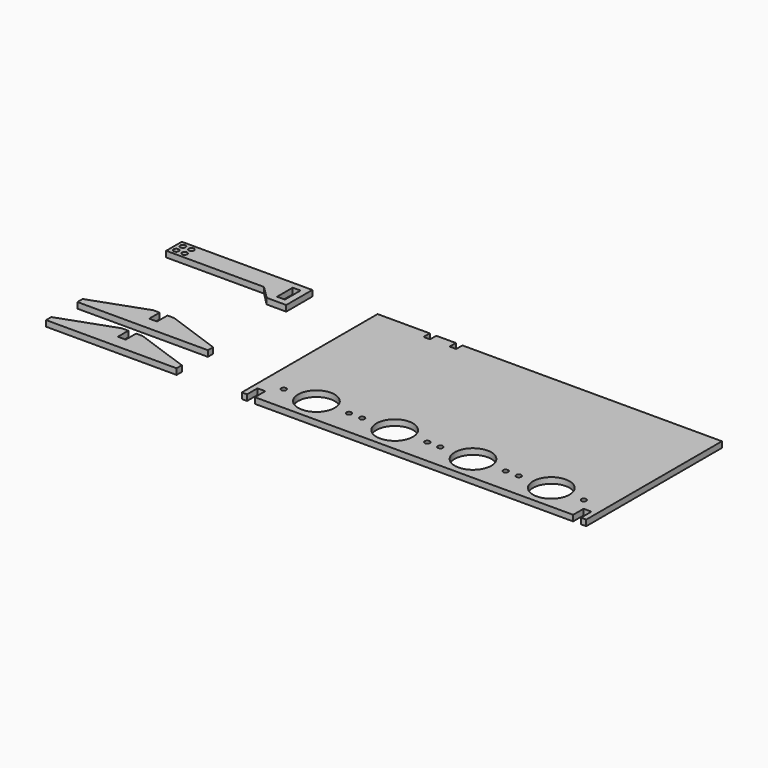
from build123d import *

# Parameters (mm, degrees)
F0_R     = 1.9304
F0_R_2   = 14
F0_R_3   = 2
F0_W     = 5.9944
F0_H     = 15
F1_DEPTH = 4.5


with BuildPart() as f1:
    # F0 (on Top) → F1 (new body)
    with BuildSketch(Plane.XY):
        Polygon((0, 130), (0, 0), (4, 0), (4, 10), (9.9944, 10), (9.9944, 0), (253.8664, 0), (253.8664, 10), (259.8608, 10), (259.8608, 0), (263.8608, 0), (263.8608, 130), (65, 130), (65, 124.0056), (60, 124.0056), (60, 130), (45, 130), (45, 124.0056), (40, 124.0056), (40, 130), align=None)
        with Locations((16.9304, 19)):
            Circle(F0_R, mode=Mode.SUBTRACT)
        with Locations((41.9304, 19)):
            Circle(F0_R_2, mode=Mode.SUBTRACT)
        with Locations((66.9304, 19)):
            Circle(F0_R, mode=Mode.SUBTRACT)
        with Locations((76.9304, 19)):
            Circle(F0_R, mode=Mode.SUBTRACT)
        with Locations((101.9304, 19)):
            Circle(F0_R_2, mode=Mode.SUBTRACT)
        with Locations((126.9304, 19)):
            Circle(F0_R, mode=Mode.SUBTRACT)
        with Locations((136.9304, 19)):
            Circle(F0_R, mode=Mode.SUBTRACT)
        with Locations((161.9304, 19)):
            Circle(F0_R_2, mode=Mode.SUBTRACT)
        with Locations((186.9304, 19)):
            Circle(F0_R, mode=Mode.SUBTRACT)
        with Locations((196.9304, 19)):
            Circle(F0_R, mode=Mode.SUBTRACT)
        with Locations((221.9304, 19)):
            Circle(F0_R_2, mode=Mode.SUBTRACT)
        with Locations((246.9304, 19)):
            Circle(F0_R, mode=Mode.SUBTRACT)
        Polygon((-150, 0), (-50, 0), (-50, 5), (-92.0028, 20), (-97.0028, 20), (-97.0028, 10), (-102.9972, 10), (-102.9972, 20), (-107.9972, 20), (-150, 5), align=None)
        Polygon((-50, 35), (-92.0028, 50), (-97.0028, 50), (-97.0028, 40), (-102.9972, 40), (-102.9972, 50), (-107.9972, 50), (-150, 35), (-150, 30), (-50, 30), align=None)
        Polygon((-50, 105), (-50, 130), (-150, 130), (-150, 115), (-75, 115), (-65, 105), align=None)
        with Locations((-145.75, 119.25)):
            Circle(F0_R_3, mode=Mode.SUBTRACT)
        with Locations((-139.25, 119.25)):
            Circle(F0_R_3, mode=Mode.SUBTRACT)
        with Locations((-145.75, 125.75)):
            Circle(F0_R_3, mode=Mode.SUBTRACT)
        with Locations((-139.25, 125.75)):
            Circle(F0_R_3, mode=Mode.SUBTRACT)
        with Locations((-57.9972, 117.5)):
            Rectangle(F0_W, F0_H, mode=Mode.SUBTRACT)
    extrude(amount=F1_DEPTH)


solid = f1.part
